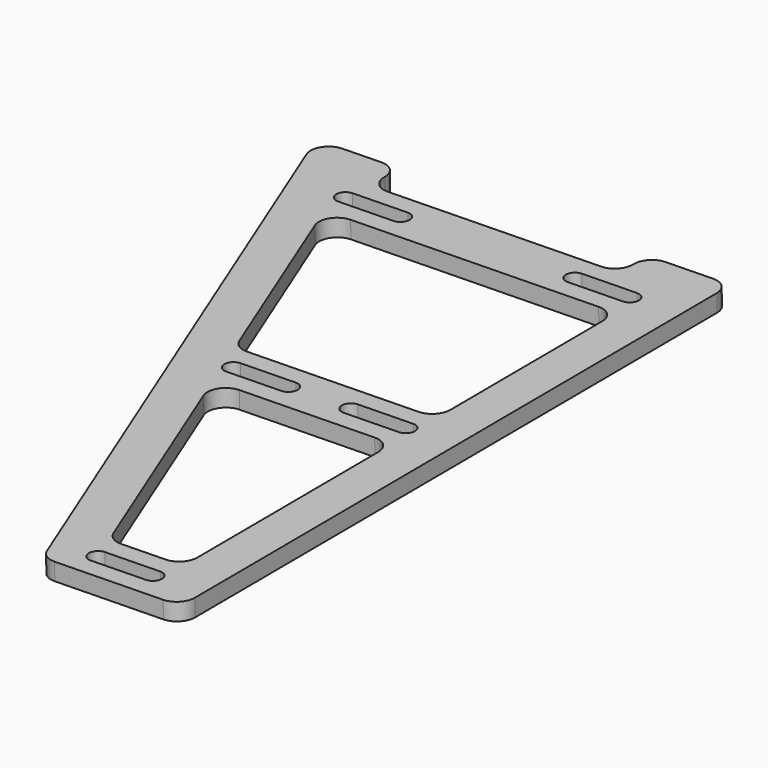
from build123d import *

# Parameters (mm, degrees)
PAD_DEPTH              = 6.25
FILLET_R               = 6.4
MIRROR_ROLL_ANGLE      = -179.860361
MIRROR_PITCH_ANGLE     = 0.86933
MIRROR_PLACEMENT_ANGLE = 0.335531


with BuildPart() as body:
    # Sketch → Pad (new body)
    with BuildSketch(Plane.XY):
        Polygon((0, 250), (50, 250), (150, 0), (120, 0), (120, 13.2), (30, 13.2), (30, 0), (0, 0), align=None)
        Polygon((15, 230), (15, 135), (79.844506, 135), (41.844506, 230), align=None, mode=Mode.SUBTRACT)
        Polygon((15, 115), (15, 33.2), (120.564506, 33.2), (87.844506, 115), align=None, mode=Mode.SUBTRACT)
        with BuildLine():
            ThreePointArc((18, 243.25), (14.75, 240), (18, 236.75))
            Line((18, 236.75), (38, 236.75))
            ThreePointArc((38, 236.75), (41.25, 240), (38, 243.25))
            Line((38, 243.25), (18, 243.25))
        make_face(mode=Mode.SUBTRACT)
        with BuildLine():
            ThreePointArc((60.5, 128.25), (57.25, 125), (60.5, 121.75))
            Line((60.5, 121.75), (80.5, 121.75))
            ThreePointArc((80.5, 121.75), (83.75, 125), (80.5, 128.25))
            Line((80.5, 128.25), (60.5, 128.25))
        make_face(mode=Mode.SUBTRACT)
        with BuildLine():
            ThreePointArc((18, 128.25), (14.75, 125), (18, 121.75))
            Line((18, 121.75), (38, 121.75))
            ThreePointArc((38, 121.75), (41.25, 125), (38, 128.25))
            Line((38, 128.25), (18, 128.25))
        make_face(mode=Mode.SUBTRACT)
        with BuildLine():
            ThreePointArc((18, 26.45), (14.75, 23.2), (18, 19.95))
            Line((18, 19.95), (38, 19.95))
            ThreePointArc((38, 19.95), (41.25, 23.2), (38, 26.45))
            Line((38, 26.45), (18, 26.45))
        make_face(mode=Mode.SUBTRACT)
        with BuildLine():
            ThreePointArc((101, 26.45), (97.75, 23.2), (101, 19.95))
            Line((101, 19.95), (121, 19.95))
            ThreePointArc((121, 19.95), (124.25, 23.2), (121, 26.45))
            Line((121, 26.45), (101, 26.45))
        make_face(mode=Mode.SUBTRACT)
    extrude(amount=PAD_DEPTH)

    # Fillet
    fillet_edges = [body.edges().sort_by_distance(p)[0] for p in [
        (0, 0, 3.125),
        (50, 250, 3.125),
        (0, 250, 3.125),
        (150, 0, 3.125),
        (120, 0, 3.125),
        (30, 0, 3.125),
        (41.844506, 230, 3.125),
        (15, 230, 3.125),
        (87.844506, 115, 3.125),
        (15, 115, 3.125),
        (15, 135, 3.125),
        (15, 33.2, 3.125),
        (120.564506, 33.2, 3.125),
        (79.844506, 135, 3.125),
        (30, 13.2, 3.125),
        (120, 13.2, 3.125),
    ]]
    fillet(fillet_edges, radius=FILLET_R)


with BuildPart() as model_body_mirrored:
    # mirror: instance of Body
    add(body.part.mirror(Plane(origin=(159.181488, 124.226166, 5.790833), x_dir=(-0.001618, 0.999999, 0), z_dir=(-0.999887, -0.001617, 0.014919))))


with BuildPart() as model_body_mirrored_1:
    # mirror roll: moved
    add(model_body_mirrored.part.rotate(Axis((0, 0, 0), (1, 0, 0)), MIRROR_ROLL_ANGLE))


with BuildPart() as model_body_mirrored_2:
    # mirror pitch: moved
    add(model_body_mirrored_1.part.rotate(Axis((0, 0, 0), (0, 1, 0)), MIRROR_PITCH_ANGLE))


with BuildPart() as model_body_mirrored_3:
    # mirror placement: moved
    add(model_body_mirrored_2.part.moved(Location((-110.969424, 247.905415, 10.458181))).rotate(Axis((-110.969424, 247.905415, 10.458181), (0, 0, 1)), MIRROR_PLACEMENT_ANGLE))


solid = model_body_mirrored_3.part
